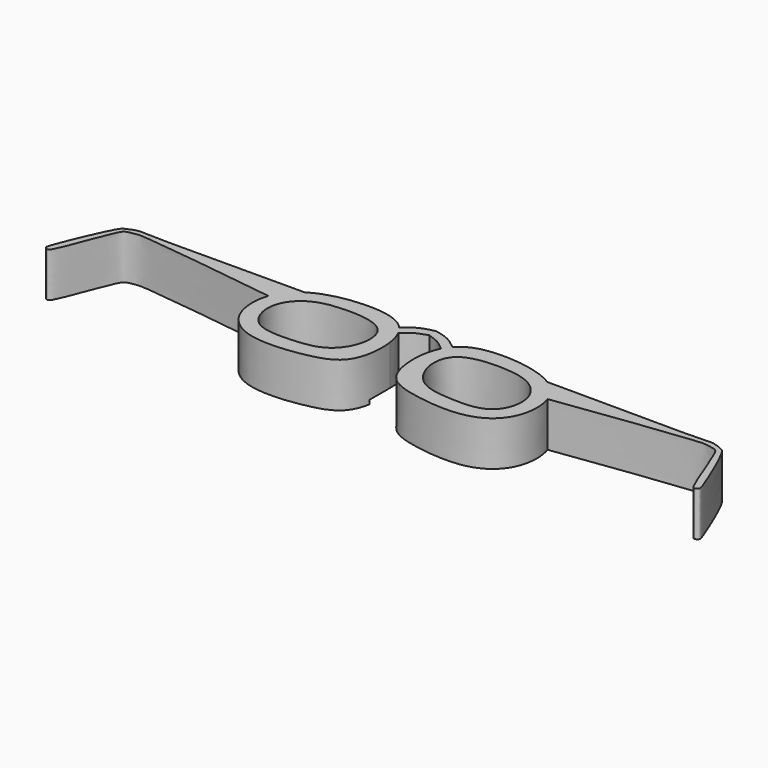
from build123d import *

# Parameters (mm, degrees)
F1_DEPTH = 19
F4_DEPTH = 83.3


with BuildPart() as f1:
    # F0 (on Top) → F1 (new body)
    with BuildSketch(Plane.XY):
        with BuildLine():
            add(Edge.make_bspline(
                [(-59.4272203743, 11.4292973631), (-61.1454339814, 6.5140114045), (-60.7272717332, -5.4949377823), (-47.686798993, -17.026496111), (-22.5578482567, -14.6740710377), (-7.5180185049, -9.1750576643), (-6.1414379788, 4.8207688713), (-6.9984868169, 10.7185594716)],
                knots=[0.4348351885, 0.4348351885, 0.4348351885, 0.4348351885, 0.5423283087, 0.6484268973, 0.7822493355, 0.885436217, 1, 1, 1, 1], degree=3))
            add(Edge.make_bspline(
                [(-6.9984868169, 10.7185594716), (-7.3812704117, 13.3526888082), (-8.0794890141, 15.6944338775), (-9.1094812328, 17.6999545574)],
                knots=[0, 0, 0, 0, 0.0511676053, 0.0511676053, 0.0511676053, 0.0511676053], degree=3))
            add(Edge.make_bspline(
                [(-9.1094812328, 17.6999545574), (-9.7353033854, 18.9185067426), (-10.4836085403, 20.012932805), (-11.3580616304, 20.973398914)],
                knots=[0.0511676053, 0.0511676053, 0.0511676053, 0.0511676053, 0.0822569867, 0.0822569867, 0.0822569867, 0.0822569867], degree=3))
            add(Edge.make_bspline(
                [(-11.3580616304, 20.973398914), (-11.7757705939, 21.4321945971), (-15.3002160154, 24.8124687784), (-26.5515018715, 27.7794052876), (-43.9049612216, 25.4050772544), (-50.8556601359, 21.5301246277), (-51.717843631, 20.973398914)],
                knots=[0.0822569867, 0.0822569867, 0.0822569867, 0.0822569867, 0.0971077699, 0.199483352, 0.3291187872, 0.348954887, 0.348954887, 0.348954887, 0.348954887], degree=3))
            add(Edge.make_bspline(
                [(-51.717843631, 20.973398914), (-55.4506630517, 18.5630575327), (-58.054474822, 15.3563044071), (-59.4272203743, 11.4292973631)],
                knots=[0.348954887, 0.348954887, 0.348954887, 0.348954887, 0.4348351885, 0.4348351885, 0.4348351885, 0.4348351885], degree=3))
        make_face()
        with BuildLine():
            add(Edge.make_bspline(
                [(-33.1256426871, 19.6488369256), (-38.7142739672, 19.5185311653), (-47.9916789369, 17.9875637478), (-56.0905801064, 6.7647092151), (-51.2766634125, -8.6923293167), (-33.9743303217, -8.7902143918), (-19.4240522565, -7.143613497), (-12.2843575562, 5.3724864241), (-14.9511770737, 18.6562220425), (-27.1684665135, 19.7877357601), (-33.1256426871, 19.6488369256)],
                knots=[0, 0, 0, 0, 0.1297056296, 0.246888409, 0.3681646108, 0.5020055508, 0.6298005482, 0.7504643397, 0.8617408723, 1, 1, 1, 1], degree=3))
        make_face(mode=Mode.SUBTRACT)
        with BuildLine():
            add(Edge.make_bspline(
                [(-9.1094812328, 17.6999545574), (-9.7353033854, 18.9185067426), (-10.4836085403, 20.012932805), (-11.3580616304, 20.973398914)],
                knots=[0.0511676053, 0.0511676053, 0.0511676053, 0.0511676053, 0.0822569867, 0.0822569867, 0.0822569867, 0.0822569867], degree=3))
            add(Edge.make_bspline(
                [(0, 22.7959945335), (-0.5982474549, 22.5733148538), (-1.9524393493, 22.0692463028), (-5.078078446, 20.9899764968), (-7.6568168056, 18.8848679539), (-9.1094812328, 17.6999545574)],
                knots=[0, 0, 0, 0, 0.257091143, 0.5822478927, 1, 1, 1, 1], degree=3))
            Line((0, 22.7959945335), (0, 26.4829756671))
            add(Edge.make_bspline(
                [(-11.3580616304, 20.973398914), (-9.5948206599, 22.3768833432), (-6.1287886888, 25.1357359242), (-2.0190372704, 26.0391477932), (0, 26.4829756671)],
                knots=[0, 0, 0, 0, 0.5087203422, 1, 1, 1, 1], degree=3))
        make_face()
        with BuildLine():
            add(Edge.make_bspline(
                [(-59.8112558122, 20.973398914), (-85.9528643477, 20.8192939673), (-118.3053261993, 20.5522696486), (-122.2559030527, 21.314883085), (-126.8529663816, 19.5237905806), (-129.4132605324, 17.9188311568), (-138.9129995596, -5.1580963104), (-139.2864402695, -7.4049060019), (-137.6950530204, -8.4939607834), (-135.524431032, -6.849515994), (-127.7147312209, 16.3070247811), (-125.2869779538, 18.1665162929), (-121.4863439191, 18.7210768886), (-118.0645353173, 19.2841391904), (-85.8695841136, 15.07120743), (-59.4272203743, 11.4292973631)],
                knots=[0, 0, 0, 0, 0.191035205, 0.2363657907, 0.2862723585, 0.3332088696, 0.4559102152, 0.4918285626, 0.5196914191, 0.5557442121, 0.6777989327, 0.722592766, 0.7665034488, 0.8080193249, 1, 1, 1, 1], degree=3))
            add(Edge.make_bspline(
                [(-51.717843631, 20.973398914), (-55.4506630517, 18.5630575327), (-58.054474822, 15.3563044071), (-59.4272203743, 11.4292973631)],
                knots=[0.348954887, 0.348954887, 0.348954887, 0.348954887, 0.4348351885, 0.4348351885, 0.4348351885, 0.4348351885], degree=3))
            Line((-51.717843631, 20.973398914), (-59.8112558122, 20.973398914))
        make_face()
    extrude(amount=F1_DEPTH)

    # F2: F1 across plane


with BuildPart() as f1_1:
    add(f1.part)
    add(f1.part.mirror(Plane.YZ))

    # F3 (on Front) → F4 (cut)
    with BuildSketch(Plane.XZ):
        with BuildLine():
            Line((-9.3462094665, 0), (0, 0))
            Line((0, 0), (0, 4.4242064469))
            add(Edge.make_bspline(
                [(0, 4.4242064469), (-1.5806688134, 4.3092005421), (-4.8105001932, 4.0742052813), (-8.7692216054, 0.4188013877), (-9.3462094665, 0)],
                knots=[0, 0, 0, 0, 0.1232666898, 0.2518747883, 0.2518747883, 0.2518747883, 0.2518747883], degree=3))
        make_face()
        with BuildLine():
            Line((0, 4.4242064469), (0, 0))
            Line((0, 0), (9.3462094665, 0))
            add(Edge.make_bspline(
                [(0, 4.4242064469), (1.5806688134, 4.3092005421), (4.8105001932, 4.0742052813), (8.7692216054, 0.4188013877), (9.3462094665, 0)],
                knots=[0, 0, 0, 0, 0.1232666898, 0.2518747883, 0.2518747883, 0.2518747883, 0.2518747883], degree=3))
        make_face()
    extrude(amount=-F4_DEPTH, mode=Mode.SUBTRACT)


solid = f1_1.part
